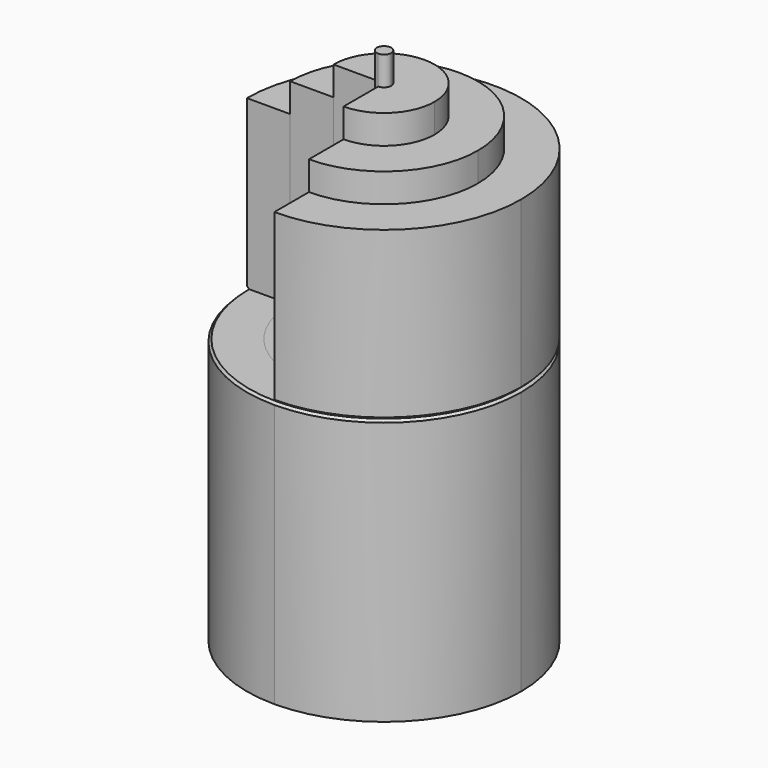
from build123d import *

# Parameters (mm, degrees)
F7_DEPTH       = 150
F8_DEPTH       = 92
F9_DEPTH       = 92
F9_DEPTH_BACK  = 2
F10_DEPTH      = 160
F10_DEPTH_BACK = 2
F11_DEPTH      = 92
F11_DEPTH_BACK = 4
F12_DEPTH      = 170
F12_DEPTH_BACK = 4
F13_DEPTH      = 180
F13_DEPTH_BACK = 14


with BuildPart() as f7:
    # F1 (on offset) → F7 (new body, through all)
    with BuildSketch(Plane.XY.offset(-80)):
        with BuildLine():
            ThreePointArc((0, -47.5), (33.5875721064, -33.5875721064), (47.5, 0))
            ThreePointArc((47.5, 0), (0, 47.5), (-47.5, 0))
            Line((-47.5, 0), (-32.5, 0))
            ThreePointArc((-32.5, 0), (0, 32.5), (32.5, 0))
            ThreePointArc((32.5, 0), (22.9809703886, -22.9809703886), (0, -32.5))
            Line((0, -32.5), (0, -47.5))
        make_face()
    extrude(amount=F7_DEPTH)

    # F1 (on offset) → F8 (join, through all)
    with BuildSketch(Plane.XY.offset(-80)):
        with BuildLine():
            Line((-32.5, 0), (-47.5, 0))
            ThreePointArc((-47.5, 0), (-33.5875721064, -33.5875721064), (0, -47.5))
            Line((0, -47.5), (0, -32.5))
            ThreePointArc((0, -32.5), (-22.9809703886, -22.9809703886), (-32.5, 0))
        make_face()
    extrude(amount=F8_DEPTH)

    # F14 (on face) → F15 (revolve, cut)
    with BuildSketch(Plane.XZ):
        Polygon((-46.7, 12), (-47.5, 12.8), (-47.5, 12), (-47.5, 11.2), align=None)
    revolve(axis=Axis((0, 0, -80), (0, 0, -1)), mode=Mode.SUBTRACT)


with BuildPart() as f9:
    # F1 (on offset) → F9 (new body, two sides)
    with BuildSketch(Plane.XY.offset(-80)) as f9_sk:
        with BuildLine():
            Line((-17.5, 0), (-32.5, 0))
            ThreePointArc((-32.5, 0), (-22.9809703886, -22.9809703886), (0, -32.5))
            Line((0, -32.5), (0, -17.5))
            ThreePointArc((0, -17.5), (-12.3743686708, -12.3743686708), (-17.5, 0))
        make_face()
    extrude(amount=F9_DEPTH)
    extrude(f9_sk.sketch, amount=-F9_DEPTH_BACK)

    # F1 (on offset) → F10 (join, two sides)
    with BuildSketch(Plane.XY.offset(-80)) as f10_sk:
        with BuildLine():
            ThreePointArc((32.5, 0), (0, 32.5), (-32.5, 0))
            Line((-32.5, 0), (-17.5, 0))
            ThreePointArc((-17.5, 0), (0, 17.5), (17.5, 0))
            ThreePointArc((17.5, 0), (12.3743686708, -12.3743686708), (0, -17.5))
            Line((0, -17.5), (0, -32.5))
            ThreePointArc((0, -32.5), (22.9809703886, -22.9809703886), (32.5, 0))
        make_face()
    extrude(amount=F10_DEPTH)
    extrude(f10_sk.sketch, amount=-F10_DEPTH_BACK)


with BuildPart() as f11:
    # F1 (on offset) → F11 (new body, two sides)
    with BuildSketch(Plane.XY.offset(-80)) as f11_sk:
        with BuildLine():
            Line((-2.5, 0), (-17.5, 0))
            ThreePointArc((-17.5, 0), (-12.3743686708, -12.3743686708), (0, -17.5))
            Line((0, -17.5), (0, -2.5))
            ThreePointArc((0, -2.5), (-1.767766953, -1.767766953), (-2.5, 0))
        make_face()
    extrude(amount=F11_DEPTH)
    extrude(f11_sk.sketch, amount=-F11_DEPTH_BACK)

    # F1 (on offset) → F12 (join, two sides)
    with BuildSketch(Plane.XY.offset(-80)) as f12_sk:
        with BuildLine():
            ThreePointArc((17.5, 0), (0, 17.5), (-17.5, 0))
            Line((-17.5, 0), (-2.5, 0))
            ThreePointArc((-2.5, 0), (0, 2.5), (2.5, 0))
            ThreePointArc((2.5, 0), (1.767766953, -1.767766953), (0, -2.5))
            Line((0, -2.5), (0, -17.5))
            ThreePointArc((0, -17.5), (12.3743686708, -12.3743686708), (17.5, 0))
        make_face()
    extrude(amount=F12_DEPTH)
    extrude(f12_sk.sketch, amount=-F12_DEPTH_BACK)


with BuildPart() as f13:
    # F1 (on offset) → F13 (new body, two sides)
    with BuildSketch(Plane.XY.offset(-80)) as f13_sk:
        with BuildLine():
            ThreePointArc((2.5, 0), (0, 2.5), (-2.5, 0))
            ThreePointArc((-2.5, 0), (-1.767766953, -1.767766953), (0, -2.5))
            ThreePointArc((0, -2.5), (1.767766953, -1.767766953), (2.5, 0))
        make_face()
    extrude(amount=F13_DEPTH)
    extrude(f13_sk.sketch, amount=-F13_DEPTH_BACK)


solid = Compound([f7.part, f9.part, f11.part, f13.part])
